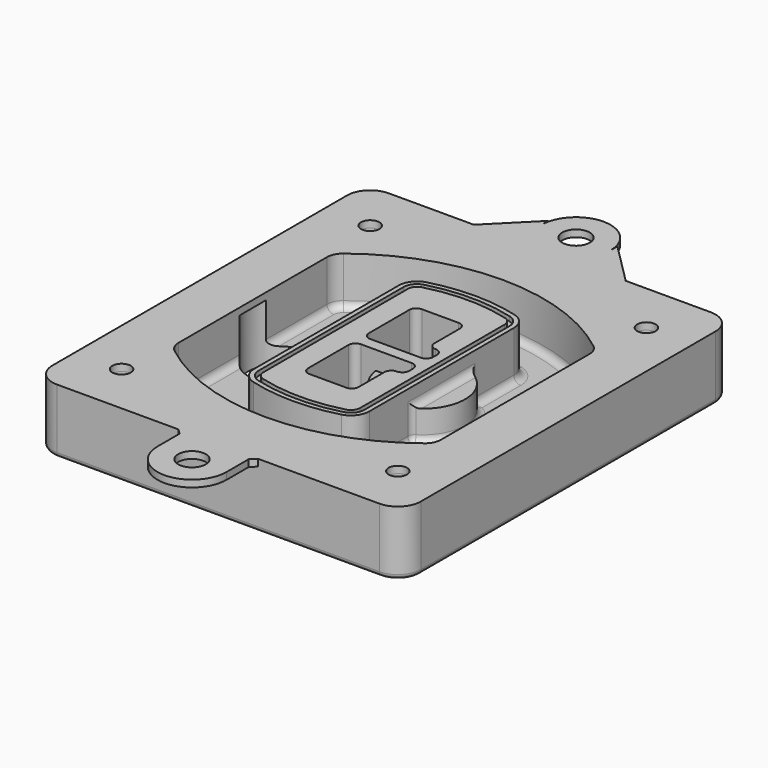
from build123d import *

# Parameters (mm, degrees)
F0_R      = 4
F1_DEPTH  = 25
F2_DEPTH  = 3
F3_DEPTH  = 18
F5_DEPTH  = 21
F6_DEPTH  = 2
F8_DEPTH  = 20
F9_DEPTH  = 16
F10_DEPTH = 25
F7_R      = 6
F7_R_2    = 4
F11_DEPTH = 6
F13_DEPTH = 9
F14_R     = 3
F15_R     = 2
F16_R     = 6
F16_R_2   = 4
F17_DEPTH = 3


with BuildPart() as f1:
    # F0 (on Top) → F1 (new body)
    with BuildSketch(Plane.XY):
        with BuildLine():
            ThreePointArc((-80, -80), (-77.0710678119, -87.0710678119), (-70, -90))
            Line((-70, -90), (70, -90))
            ThreePointArc((70, -90), (77.0710678119, -87.0710678119), (80, -80))
            Line((80, -80), (80, 80))
            ThreePointArc((80, 80), (77.0710678119, 87.0710678119), (70, 90))
            Line((70, 90), (-70, 90))
            ThreePointArc((-70, 90), (-77.0710678119, 87.0710678119), (-80, 80))
            Line((-80, 80), (-80, -80))
        make_face()
        with Locations((-60, -67.5)):
            Circle(F0_R, mode=Mode.SUBTRACT)
        with Locations((60, -67.5)):
            Circle(F0_R, mode=Mode.SUBTRACT)
        with Locations((-60, 67.5)):
            Circle(F0_R, mode=Mode.SUBTRACT)
        with BuildLine():
            ThreePointArc((-64, 40.2934422872), (-62.5820384798, 46.4328484224), (-58.6153846154, 51.3286200352))
            ThreePointArc((-58.6153846154, 51.3286200352), (0, 71.5), (58.6153846154, 51.3286200352))
            ThreePointArc((58.6153846154, 51.3286200352), (62.5820384798, 46.4328484224), (64, 40.2934422872))
            Line((64, 40.2934422872), (64, -40.2934422872))
            ThreePointArc((64, -40.2934422872), (62.5820384798, -46.4328484224), (58.6153846154, -51.3286200352))
            ThreePointArc((58.6153846154, -51.3286200352), (0, -71.5), (-58.6153846154, -51.3286200352))
            ThreePointArc((-58.6153846154, -51.3286200352), (-62.5820384798, -46.4328484224), (-64, -40.2934422872))
            Line((-64, -40.2934422872), (-64, 40.2934422872))
        make_face(mode=Mode.SUBTRACT)
        with Locations((60, 67.5)):
            Circle(F0_R, mode=Mode.SUBTRACT)
        with BuildLine():
            ThreePointArc((58.6153846154, 51.3286200352), (0, 71.5), (-58.6153846154, 51.3286200352))
            ThreePointArc((-58.6153846154, 51.3286200352), (-62.5820384798, 46.4328484224), (-64, 40.2934422872))
            Line((-64, 40.2934422872), (-64, -40.2934422872))
            ThreePointArc((-64, -40.2934422872), (-62.5820384798, -46.4328484224), (-58.6153846154, -51.3286200352))
            ThreePointArc((-58.6153846154, -51.3286200352), (0, -71.5), (58.6153846154, -51.3286200352))
            ThreePointArc((58.6153846154, -51.3286200352), (62.5820384798, -46.4328484224), (64, -40.2934422872))
            Line((64, -40.2934422872), (64, 40.2934422872))
            ThreePointArc((64, 40.2934422872), (62.5820384798, 46.4328484224), (58.6153846154, 51.3286200352))
        make_face()
        with BuildLine():
            Line((-60, -40.2934422872), (-60, 40.2934422872))
            ThreePointArc((-60, 40.2934422872), (-58.9871703427, 44.6787323838), (-56.1538461538, 48.1757121072))
            ThreePointArc((-56.1538461538, 48.1757121072), (0, 67.5), (56.1538461538, 48.1757121072))
            ThreePointArc((56.1538461538, 48.1757121072), (58.9871703427, 44.6787323838), (60, 40.2934422872))
            Line((60, 40.2934422872), (60, -40.2934422872))
            ThreePointArc((60, -40.2934422872), (58.9871703427, -44.6787323838), (56.1538461538, -48.1757121072))
            ThreePointArc((56.1538461538, -48.1757121072), (0, -67.5), (-56.1538461538, -48.1757121072))
            ThreePointArc((-56.1538461538, -48.1757121072), (-58.9871703427, -44.6787323838), (-60, -40.2934422872))
        make_face(mode=Mode.SUBTRACT)
        with BuildLine():
            ThreePointArc((-56.1538461538, 48.1757121072), (-58.9871703427, 44.6787323838), (-60, 40.2934422872))
            Line((-60, 40.2934422872), (-60, -40.2934422872))
            ThreePointArc((-60, -40.2934422872), (-58.9871703427, -44.6787323838), (-56.1538461538, -48.1757121072))
            ThreePointArc((-56.1538461538, -48.1757121072), (0, -67.5), (56.1538461538, -48.1757121072))
            ThreePointArc((56.1538461538, -48.1757121072), (58.9871703427, -44.6787323838), (60, -40.2934422872))
            Line((60, -40.2934422872), (60, 40.2934422872))
            ThreePointArc((60, 40.2934422872), (58.9871703427, 44.6787323838), (56.1538461538, 48.1757121072))
            ThreePointArc((56.1538461538, 48.1757121072), (0, 67.5), (-56.1538461538, 48.1757121072))
        make_face()
        with BuildLine():
            ThreePointArc((54.3076923077, 45.8110311612), (56.2910192399, 43.3631453548), (57, 40.2934422872))
            Line((57, 40.2934422872), (57, -40.2934422872))
            ThreePointArc((57, -40.2934422872), (56.2910192399, -43.3631453548), (54.3076923077, -45.8110311612))
            ThreePointArc((54.3076923077, -45.8110311612), (0, -64.5), (-54.3076923077, -45.8110311612))
            ThreePointArc((-54.3076923077, -45.8110311612), (-56.2910192399, -43.3631453548), (-57, -40.2934422872))
            Line((-57, -40.2934422872), (-57, 40.2934422872))
            ThreePointArc((-57, 40.2934422872), (-56.2910192399, 43.3631453548), (-54.3076923077, 45.8110311612))
            ThreePointArc((-54.3076923077, 45.8110311612), (0, 64.5), (54.3076923077, 45.8110311612))
        make_face(mode=Mode.SUBTRACT)
        with BuildLine():
            Line((57, -40.2934422872), (57, 40.2934422872))
            ThreePointArc((57, 40.2934422872), (56.2910192399, 43.3631453548), (54.3076923077, 45.8110311612))
            ThreePointArc((54.3076923077, 45.8110311612), (0, 64.5), (-54.3076923077, 45.8110311612))
            ThreePointArc((-54.3076923077, 45.8110311612), (-56.2910192399, 43.3631453548), (-57, 40.2934422872))
            Line((-57, 40.2934422872), (-57, -40.2934422872))
            ThreePointArc((-57, -40.2934422872), (-56.2910192399, -43.3631453548), (-54.3076923077, -45.8110311612))
            ThreePointArc((-54.3076923077, -45.8110311612), (0, -64.5), (54.3076923077, -45.8110311612))
            ThreePointArc((54.3076923077, -45.8110311612), (56.2910192399, -43.3631453548), (57, -40.2934422872))
        make_face()
    extrude(amount=-F1_DEPTH)

    # F0 (on Top) → F2 (join)
    with BuildSketch(Plane.XY):
        with BuildLine():
            ThreePointArc((-56.1538461538, 48.1757121072), (-58.9871703427, 44.6787323838), (-60, 40.2934422872))
            Line((-60, 40.2934422872), (-60, -40.2934422872))
            ThreePointArc((-60, -40.2934422872), (-58.9871703427, -44.6787323838), (-56.1538461538, -48.1757121072))
            ThreePointArc((-56.1538461538, -48.1757121072), (0, -67.5), (56.1538461538, -48.1757121072))
            ThreePointArc((56.1538461538, -48.1757121072), (58.9871703427, -44.6787323838), (60, -40.2934422872))
            Line((60, -40.2934422872), (60, 40.2934422872))
            ThreePointArc((60, 40.2934422872), (58.9871703427, 44.6787323838), (56.1538461538, 48.1757121072))
            ThreePointArc((56.1538461538, 48.1757121072), (0, 67.5), (-56.1538461538, 48.1757121072))
        make_face()
        with BuildLine():
            ThreePointArc((54.3076923077, 45.8110311612), (56.2910192399, 43.3631453548), (57, 40.2934422872))
            Line((57, 40.2934422872), (57, -40.2934422872))
            ThreePointArc((57, -40.2934422872), (56.2910192399, -43.3631453548), (54.3076923077, -45.8110311612))
            ThreePointArc((54.3076923077, -45.8110311612), (0, -64.5), (-54.3076923077, -45.8110311612))
            ThreePointArc((-54.3076923077, -45.8110311612), (-56.2910192399, -43.3631453548), (-57, -40.2934422872))
            Line((-57, -40.2934422872), (-57, 40.2934422872))
            ThreePointArc((-57, 40.2934422872), (-56.2910192399, 43.3631453548), (-54.3076923077, 45.8110311612))
            ThreePointArc((-54.3076923077, 45.8110311612), (0, 64.5), (54.3076923077, 45.8110311612))
        make_face(mode=Mode.SUBTRACT)
    extrude(amount=F2_DEPTH)

    # F0 (on Top) → F3 (cut)
    with BuildSketch(Plane.XY):
        with BuildLine():
            Line((57, -40.2934422872), (57, 40.2934422872))
            ThreePointArc((57, 40.2934422872), (56.2910192399, 43.3631453548), (54.3076923077, 45.8110311612))
            ThreePointArc((54.3076923077, 45.8110311612), (0, 64.5), (-54.3076923077, 45.8110311612))
            ThreePointArc((-54.3076923077, 45.8110311612), (-56.2910192399, 43.3631453548), (-57, 40.2934422872))
            Line((-57, 40.2934422872), (-57, -40.2934422872))
            ThreePointArc((-57, -40.2934422872), (-56.2910192399, -43.3631453548), (-54.3076923077, -45.8110311612))
            ThreePointArc((-54.3076923077, -45.8110311612), (0, -64.5), (54.3076923077, -45.8110311612))
            ThreePointArc((54.3076923077, -45.8110311612), (56.2910192399, -43.3631453548), (57, -40.2934422872))
        make_face()
    extrude(amount=-F3_DEPTH, mode=Mode.SUBTRACT)

    # F4 (on face) → F5 (join, through all)
    with BuildSketch(Plane.XY.offset(3)):
        with BuildLine():
            ThreePointArc((-25, -39.2465276821), (-23.3511545998, -44.1109737193), (-19.0842911877, -46.9702398883))
            ThreePointArc((-19.0842911877, -46.9702398883), (0, -49.5), (19.0842911877, -46.9702398883))
            ThreePointArc((19.0842911877, -46.9702398883), (23.3511545998, -44.1109737193), (25, -39.2465276821))
            Line((25, -39.2465276821), (25, 39.2465276821))
            ThreePointArc((25, 39.2465276821), (23.3511545998, 44.1109737193), (19.0842911877, 46.9702398883))
            ThreePointArc((19.0842911877, 46.9702398883), (0, 49.5), (-19.0842911877, 46.9702398883))
            ThreePointArc((-19.0842911877, 46.9702398883), (-23.3511545998, 44.1109737193), (-25, 39.2465276821))
            Line((-25, 39.2465276821), (-25, -39.2465276821))
        make_face()
        with BuildLine():
            ThreePointArc((18.5632183908, 45.0393118368), (21.7633659499, 42.89486221), (23, 39.2465276821))
            Line((23, 39.2465276821), (23, -39.2465276821))
            ThreePointArc((23, -39.2465276821), (21.7633659499, -42.89486221), (18.5632183908, -45.0393118368))
            ThreePointArc((18.5632183908, -45.0393118368), (0, -47.5), (-18.5632183908, -45.0393118368))
            ThreePointArc((-18.5632183908, -45.0393118368), (-21.7633659499, -42.89486221), (-23, -39.2465276821))
            Line((-23, -39.2465276821), (-23, 39.2465276821))
            ThreePointArc((-23, 39.2465276821), (-21.7633659499, 42.89486221), (-18.5632183908, 45.0393118368))
            ThreePointArc((-18.5632183908, 45.0393118368), (0, 47.5), (18.5632183908, 45.0393118368))
        make_face(mode=Mode.SUBTRACT)
        with BuildLine():
            Line((23, -39.2465276821), (23, 39.2465276821))
            ThreePointArc((23, 39.2465276821), (21.7633659499, 42.89486221), (18.5632183908, 45.0393118368))
            ThreePointArc((18.5632183908, 45.0393118368), (0, 47.5), (-18.5632183908, 45.0393118368))
            ThreePointArc((-18.5632183908, 45.0393118368), (-21.7633659499, 42.89486221), (-23, 39.2465276821))
            Line((-23, 39.2465276821), (-23, -39.2465276821))
            ThreePointArc((-23, -39.2465276821), (-21.7633659499, -42.89486221), (-18.5632183908, -45.0393118368))
            ThreePointArc((-18.5632183908, -45.0393118368), (0, -47.5), (18.5632183908, -45.0393118368))
            ThreePointArc((18.5632183908, -45.0393118368), (21.7633659499, -42.89486221), (23, -39.2465276821))
        make_face()
        with BuildLine():
            ThreePointArc((18.0421455939, 43.1083837852), (20.1755772999, 41.6787507007), (21, 39.2465276821))
            Line((21, 39.2465276821), (21, -39.2465276821))
            ThreePointArc((21, -39.2465276821), (20.1755772999, -41.6787507007), (18.0421455939, -43.1083837852))
            ThreePointArc((18.0421455939, -43.1083837852), (0, -45.5), (-18.0421455939, -43.1083837852))
            ThreePointArc((-18.0421455939, -43.1083837852), (-20.1755772999, -41.6787507007), (-21, -39.2465276821))
            Line((-21, -39.2465276821), (-21, 39.2465276821))
            ThreePointArc((-21, 39.2465276821), (-20.1755772999, 41.6787507007), (-18.0421455939, 43.1083837852))
            ThreePointArc((-18.0421455939, 43.1083837852), (0, 45.5), (18.0421455939, 43.1083837852))
        make_face(mode=Mode.SUBTRACT)
        with BuildLine():
            Line((21, -39.2465276821), (21, 39.2465276821))
            ThreePointArc((21, 39.2465276821), (20.1755772999, 41.6787507007), (18.0421455939, 43.1083837852))
            ThreePointArc((18.0421455939, 43.1083837852), (0, 45.5), (-18.0421455939, 43.1083837852))
            ThreePointArc((-18.0421455939, 43.1083837852), (-20.1755772999, 41.6787507007), (-21, 39.2465276821))
            Line((-21, 39.2465276821), (-21, -39.2465276821))
            ThreePointArc((-21, -39.2465276821), (-20.1755772999, -41.6787507007), (-18.0421455939, -43.1083837852))
            ThreePointArc((-18.0421455939, -43.1083837852), (0, -45.5), (18.0421455939, -43.1083837852))
            ThreePointArc((18.0421455939, -43.1083837852), (20.1755772999, -41.6787507007), (21, -39.2465276821))
        make_face()
        with BuildLine():
            Line((-8, -2.5), (14, -2.5))
            ThreePointArc((14, -2.5), (16.1213203436, -3.3786796564), (17, -5.5))
            Line((17, -5.5), (17, -7.5))
            ThreePointArc((17, -7.5), (16.1213203436, -9.6213203436), (14, -10.5))
            ThreePointArc((14, -10.5), (11.8786796564, -11.3786796564), (11, -13.5))
            Line((11, -13.5), (11, -27.5))
            ThreePointArc((11, -27.5), (10.1213203436, -29.6213203436), (8, -30.5))
            Line((8, -30.5), (-8, -30.5))
            ThreePointArc((-8, -30.5), (-10.1213203436, -29.6213203436), (-11, -27.5))
            Line((-11, -27.5), (-11, -5.5))
            ThreePointArc((-11, -5.5), (-10.1213203436, -3.3786796564), (-8, -2.5))
        make_face(mode=Mode.SUBTRACT)
        with BuildLine():
            ThreePointArc((-8, 2.5), (-10.1213203436, 3.3786796564), (-11, 5.5))
            Line((-11, 5.5), (-11, 27.5))
            ThreePointArc((-11, 27.5), (-10.1213203436, 29.6213203436), (-8, 30.5))
            Line((-8, 30.5), (8, 30.5))
            ThreePointArc((8, 30.5), (10.1213203436, 29.6213203436), (11, 27.5))
            Line((11, 27.5), (11, 13.5))
            ThreePointArc((11, 13.5), (11.8786796564, 11.3786796564), (14, 10.5))
            ThreePointArc((14, 10.5), (16.1213203436, 9.6213203436), (17, 7.5))
            Line((17, 7.5), (17, 5.5))
            ThreePointArc((17, 5.5), (16.1213203436, 3.3786796564), (14, 2.5))
            Line((14, 2.5), (-8, 2.5))
        make_face(mode=Mode.SUBTRACT)
    extrude(amount=-F5_DEPTH)

    # F4 (on face) → F6 (cut)
    with BuildSketch(Plane.XY.offset(3)):
        with BuildLine():
            Line((23, -39.2465276821), (23, 39.2465276821))
            ThreePointArc((23, 39.2465276821), (21.7633659499, 42.89486221), (18.5632183908, 45.0393118368))
            ThreePointArc((18.5632183908, 45.0393118368), (0, 47.5), (-18.5632183908, 45.0393118368))
            ThreePointArc((-18.5632183908, 45.0393118368), (-21.7633659499, 42.89486221), (-23, 39.2465276821))
            Line((-23, 39.2465276821), (-23, -39.2465276821))
            ThreePointArc((-23, -39.2465276821), (-21.7633659499, -42.89486221), (-18.5632183908, -45.0393118368))
            ThreePointArc((-18.5632183908, -45.0393118368), (0, -47.5), (18.5632183908, -45.0393118368))
            ThreePointArc((18.5632183908, -45.0393118368), (21.7633659499, -42.89486221), (23, -39.2465276821))
        make_face()
        with BuildLine():
            ThreePointArc((18.0421455939, 43.1083837852), (20.1755772999, 41.6787507007), (21, 39.2465276821))
            Line((21, 39.2465276821), (21, -39.2465276821))
            ThreePointArc((21, -39.2465276821), (20.1755772999, -41.6787507007), (18.0421455939, -43.1083837852))
            ThreePointArc((18.0421455939, -43.1083837852), (0, -45.5), (-18.0421455939, -43.1083837852))
            ThreePointArc((-18.0421455939, -43.1083837852), (-20.1755772999, -41.6787507007), (-21, -39.2465276821))
            Line((-21, -39.2465276821), (-21, 39.2465276821))
            ThreePointArc((-21, 39.2465276821), (-20.1755772999, 41.6787507007), (-18.0421455939, 43.1083837852))
            ThreePointArc((-18.0421455939, 43.1083837852), (0, 45.5), (18.0421455939, 43.1083837852))
        make_face(mode=Mode.SUBTRACT)
    extrude(amount=-F6_DEPTH, mode=Mode.SUBTRACT)

    # F7 (on face) → F8 (join)
    with BuildSketch(Plane(origin=(0, 0, -25), x_dir=(1, 0, 0), z_dir=(0, 0, -1))):
        with BuildLine():
            ThreePointArc((3.28842436, 0), (16.7567035675, 13.4682792075), (30.224982775, 0))
            Line((30.224982775, 0), (35.224982775, 0))
            ThreePointArc((35.224982775, 0), (16.7567035675, 18.4682792075), (-1.71157564, 0))
            Line((-1.71157564, 0), (3.28842436, 0))
        make_face()
        with BuildLine():
            Line((3.28842436, 0), (30.224982775, 0))
            ThreePointArc((30.224982775, 0), (16.7567035675, 13.4682792075), (3.28842436, 0))
        make_face()
        with BuildLine():
            ThreePointArc((3.28842436, 0), (16.7567035675, -13.4682792075), (30.224982775, 0))
            Line((30.224982775, 0), (3.28842436, 0))
        make_face()
        with BuildLine():
            Line((35.224982775, 0), (30.224982775, 0))
            ThreePointArc((30.224982775, 0), (16.7567035675, -13.4682792075), (3.28842436, 0))
            Line((3.28842436, 0), (-1.71157564, 0))
            ThreePointArc((-1.71157564, 0), (16.7567035675, -18.4682792075), (35.224982775, 0))
        make_face()
    extrude(amount=-F8_DEPTH)

    # F7 (on face) → F9 (cut)
    with BuildSketch(Plane(origin=(0, 0, -25), x_dir=(1, 0, 0), z_dir=(0, 0, -1))):
        with BuildLine():
            Line((3.28842436, 0), (30.224982775, 0))
            ThreePointArc((30.224982775, 0), (16.7567035675, 13.4682792075), (3.28842436, 0))
        make_face()
        with BuildLine():
            ThreePointArc((3.28842436, 0), (16.7567035675, -13.4682792075), (30.224982775, 0))
            Line((30.224982775, 0), (3.28842436, 0))
        make_face()
    extrude(amount=-F9_DEPTH, mode=Mode.SUBTRACT)

    # F7 (on face) → F10 (cut)
    with BuildSketch(Plane(origin=(0, 0, -25), x_dir=(1, 0, 0), z_dir=(0, 0, -1))):
        with BuildLine():
            Line((-59.0318229325, 0), (-32.0952645175, 0))
            ThreePointArc((-32.0952645175, 0), (-45.563543725, 13.4682792075), (-59.0318229325, 0))
        make_face()
        with BuildLine():
            ThreePointArc((-59.0318229325, 0), (-45.563543725, -13.4682792075), (-32.0952645175, 0))
            Line((-32.0952645175, 0), (-59.0318229325, 0))
        make_face()
    extrude(amount=-F10_DEPTH, mode=Mode.SUBTRACT)

    # F7 (on face) → F11 (cut)
    with BuildSketch(Plane(origin=(0, 0, -25), x_dir=(1, 0, 0), z_dir=(0, 0, -1))):
        with Locations((60, -67.5)):
            Circle(F7_R)
        with Locations((60, -67.5)):
            Circle(F7_R_2, mode=Mode.SUBTRACT)
        with Locations((60, -67.5)):
            Circle(F7_R)
        with Locations((60, -67.5)):
            Circle(F7_R_2, mode=Mode.SUBTRACT)
        with Locations((-60, -67.5)):
            Circle(F7_R)
        with Locations((-60, -67.5)):
            Circle(F7_R_2, mode=Mode.SUBTRACT)
        with Locations((-60, -67.5)):
            Circle(F7_R)
        with Locations((-60, -67.5)):
            Circle(F7_R_2, mode=Mode.SUBTRACT)
        with Locations((-60, 67.5)):
            Circle(F7_R)
        with Locations((-60, 67.5)):
            Circle(F7_R_2, mode=Mode.SUBTRACT)
        with Locations((-60, 67.5)):
            Circle(F7_R)
        with Locations((-60, 67.5)):
            Circle(F7_R_2, mode=Mode.SUBTRACT)
        with Locations((60, 67.5)):
            Circle(F7_R)
        with Locations((60, 67.5)):
            Circle(F7_R_2, mode=Mode.SUBTRACT)
        with Locations((60, 67.5)):
            Circle(F7_R)
        with Locations((60, 67.5)):
            Circle(F7_R_2, mode=Mode.SUBTRACT)
    extrude(amount=-F11_DEPTH, mode=Mode.SUBTRACT)

    # F12 (on face) → F13 (cut, through all)
    with BuildSketch(Plane(origin=(0, 0, -9), x_dir=(1, 0, 0), z_dir=(0, 0, -1))):
        with BuildLine():
            Line((11, 13.5), (11, 17.5481537753))
            ThreePointArc((11, 17.5481537753), (2.5696536419, 11.8239143813), (-1.5415842455, 2.5))
            Line((-1.5415842455, 2.5), (3.5224848595, 2.5))
            ThreePointArc((3.5224848595, 2.5), (6.1857188154, 8.3455872281), (11.2536447004, 12.2927168648))
            ThreePointArc((11.2536447004, 12.2927168648), (11.0640958889, 12.8831798879), (11, 13.5))
        make_face()
        with BuildLine():
            ThreePointArc((11.2536447004, -12.2927168648), (6.1857188154, -8.3455872281), (3.5224848595, -2.5))
            Line((3.5224848595, -2.5), (-1.5415842455, -2.5))
            ThreePointArc((-1.5415842455, -2.5), (2.5696536419, -11.8239143813), (11, -17.5481537753))
            Line((11, -17.5481537753), (11, -13.5))
            ThreePointArc((11, -13.5), (11.0640958889, -12.8831798879), (11.2536447004, -12.2927168648))
        make_face()
        with BuildLine():
            ThreePointArc((11.2536447004, 12.2927168648), (6.1857188154, 8.3455872281), (3.5224848595, 2.5))
            Line((3.5224848595, 2.5), (14, 2.5))
            ThreePointArc((14, 2.5), (16.1213203436, 3.3786796564), (17, 5.5))
            Line((17, 5.5), (17, 7.5))
            ThreePointArc((17, 7.5), (16.1213203436, 9.6213203436), (14, 10.5))
            ThreePointArc((14, 10.5), (12.3601599782, 10.9878446101), (11.2536447004, 12.2927168648))
        make_face()
        with BuildLine():
            Line((14, -2.5), (3.5224848595, -2.5))
            ThreePointArc((3.5224848595, -2.5), (6.1857188154, -8.3455872281), (11.2536447004, -12.2927168648))
            ThreePointArc((11.2536447004, -12.2927168648), (12.3601599782, -10.9878446101), (14, -10.5))
            ThreePointArc((14, -10.5), (16.1213203436, -9.6213203436), (17, -7.5))
            Line((17, -7.5), (17, -5.5))
            ThreePointArc((17, -5.5), (16.1213203436, -3.3786796564), (14, -2.5))
        make_face()
    extrude(amount=F13_DEPTH, mode=Mode.SUBTRACT)

    # F14
    f14_edges = [f1.edges().sort_by_distance(p)[0] for p in [
        (-57, -23.703476, -18),
        (-57, 23.703476, -18),
        (25, 0, -5),
        (25, 16.526506, -11.5),
        (25, -16.526506, -11.5),
        (25, -27.886517, -18),
        (35.224983, 0, -18),
    ]]
    fillet(f14_edges, radius=F14_R)

    # F15
    f15_edges = [f1.edges().sort_by_distance(p)[0] for p in [
        (0, -90, -25),
    ]]
    fillet(f15_edges, radius=F15_R)

    # F16 (on face) → F17 (join, through all)
    with BuildSketch(Plane.XY):
        with BuildLine():
            Line((15, 108), (15, 104.25))
            ThreePointArc((15, 104.25), (0, 119.25), (-15, 104.25))
            Line((-15, 104.25), (-15, 108))
            Line((-15, 108), (-33, 90))
            Line((-33, 90), (33, 90))
            Line((33, 90), (15, 108))
        make_face()
        with Locations((0, 104.25)):
            Circle(F16_R, mode=Mode.SUBTRACT)
        with BuildLine():
            Line((70, 90), (33, 90))
            Line((33, 90), (-33, 90))
            Line((-33, 90), (-70, 90))
            ThreePointArc((-70, 90), (-77.0710678119, 87.0710678119), (-80, 80))
            Line((-80, 80), (-80, -80))
            ThreePointArc((-80, -80), (-77.0710678119, -87.0710678119), (-70, -90))
            Line((-70, -90), (-17.25, -90))
            Line((-17.25, -90), (17.25, -90))
            Line((17.25, -90), (70, -90))
            ThreePointArc((70, -90), (77.0710678119, -87.0710678119), (80, -80))
            Line((80, -80), (80, 80))
            ThreePointArc((80, 80), (77.0710678119, 87.0710678119), (70, 90))
        make_face()
        with Locations((-60, -67.5)):
            Circle(F16_R_2, mode=Mode.SUBTRACT)
        with Locations((60, -67.5)):
            Circle(F16_R_2, mode=Mode.SUBTRACT)
        with Locations((-60, 67.5)):
            Circle(F16_R_2, mode=Mode.SUBTRACT)
        with BuildLine():
            ThreePointArc((-60, 40.2934422872), (-58.9871703427, 44.6787323838), (-56.1538461538, 48.1757121072))
            ThreePointArc((-56.1538461538, 48.1757121072), (0, 67.5), (56.1538461538, 48.1757121072))
            ThreePointArc((56.1538461538, 48.1757121072), (58.9871703427, 44.6787323838), (60, 40.2934422872))
            Line((60, 40.2934422872), (60, -40.2934422872))
            ThreePointArc((60, -40.2934422872), (58.9871703427, -44.6787323838), (56.1538461538, -48.1757121072))
            ThreePointArc((56.1538461538, -48.1757121072), (0, -67.5), (-56.1538461538, -48.1757121072))
            ThreePointArc((-56.1538461538, -48.1757121072), (-58.9871703427, -44.6787323838), (-60, -40.2934422872))
            Line((-60, -40.2934422872), (-60, 40.2934422872))
        make_face(mode=Mode.SUBTRACT)
        with Locations((60, 67.5)):
            Circle(F16_R_2, mode=Mode.SUBTRACT)
        with BuildLine():
            Line((15, -92.25), (17.25, -90))
            Line((17.25, -90), (-17.25, -90))
            Line((-17.25, -90), (-15, -92.25))
            Line((-15, -92.25), (-15, -104.25))
            ThreePointArc((-15, -104.25), (0, -119.25), (15, -104.25))
            Line((15, -104.25), (15, -92.25))
        make_face()
        with Locations((0, -104.25)):
            Circle(F16_R, mode=Mode.SUBTRACT)
        with BuildLine():
            Line((70, 90), (33, 90))
            Line((33, 90), (-33, 90))
            Line((-33, 90), (-70, 90))
            ThreePointArc((-70, 90), (-77.0710678119, 87.0710678119), (-80, 80))
            Line((-80, 80), (-80, -80))
            ThreePointArc((-80, -80), (-77.0710678119, -87.0710678119), (-70, -90))
            Line((-70, -90), (-17.25, -90))
            Line((-17.25, -90), (17.25, -90))
            Line((17.25, -90), (70, -90))
            ThreePointArc((70, -90), (77.0710678119, -87.0710678119), (80, -80))
            Line((80, -80), (80, 80))
            ThreePointArc((80, 80), (77.0710678119, 87.0710678119), (70, 90))
        make_face()
        with Locations((-60, -67.5)):
            Circle(F16_R_2, mode=Mode.SUBTRACT)
        with Locations((60, -67.5)):
            Circle(F16_R_2, mode=Mode.SUBTRACT)
        with Locations((-60, 67.5)):
            Circle(F16_R_2, mode=Mode.SUBTRACT)
        with BuildLine():
            ThreePointArc((-60, 40.2934422872), (-58.9871703427, 44.6787323838), (-56.1538461538, 48.1757121072))
            ThreePointArc((-56.1538461538, 48.1757121072), (0, 67.5), (56.1538461538, 48.1757121072))
            ThreePointArc((56.1538461538, 48.1757121072), (58.9871703427, 44.6787323838), (60, 40.2934422872))
            Line((60, 40.2934422872), (60, -40.2934422872))
            ThreePointArc((60, -40.2934422872), (58.9871703427, -44.6787323838), (56.1538461538, -48.1757121072))
            ThreePointArc((56.1538461538, -48.1757121072), (0, -67.5), (-56.1538461538, -48.1757121072))
            ThreePointArc((-56.1538461538, -48.1757121072), (-58.9871703427, -44.6787323838), (-60, -40.2934422872))
            Line((-60, -40.2934422872), (-60, 40.2934422872))
        make_face(mode=Mode.SUBTRACT)
        with Locations((60, 67.5)):
            Circle(F16_R_2, mode=Mode.SUBTRACT)
    extrude(amount=F17_DEPTH)


solid = f1.part
